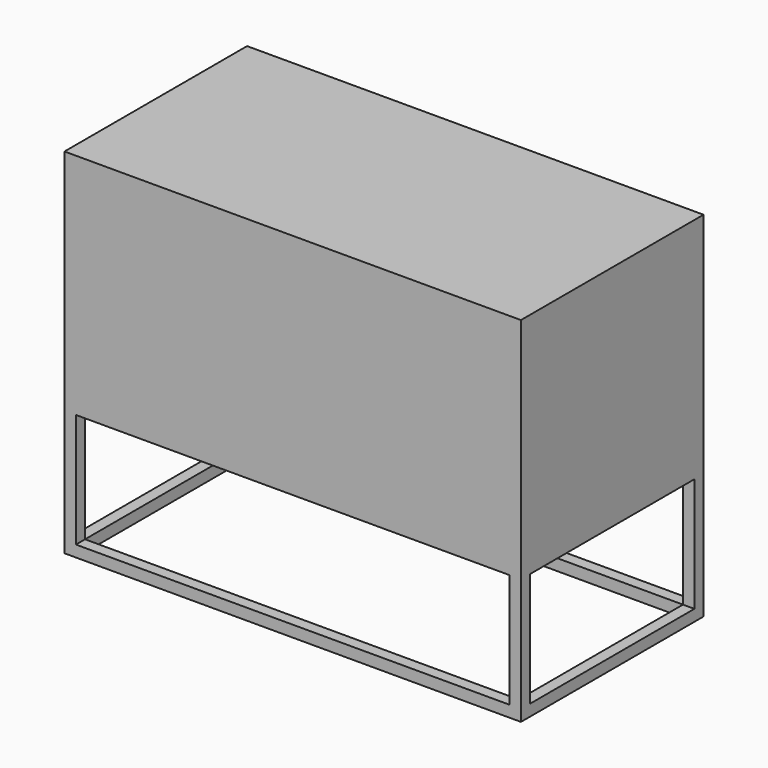
from build123d import *

# Parameters (mm, degrees)
F0_W     = 2000
F0_H     = 1000
F1_DEPTH = 1000
F3_W     = 50
F3_H     = 50
F4_DEPTH = 500
F6_W     = 2000
F6_H     = 1000
F6_W_2   = 1900
F6_H_2   = 900
F7_DEPTH = 50


with BuildPart() as f1:
    # F0 (on Front) → F1 (new body)
    with BuildSketch(Plane.XZ):
        Rectangle(F0_W, F0_H)
    extrude(amount=F1_DEPTH)

    # F3 (on offset) → F4 (join)
    with BuildSketch(Plane(origin=(0, 0, -500), x_dir=(1, 0, 0), z_dir=(0, 0, -1))):
        with Locations((975, 25)):
            Rectangle(F3_W, F3_H)
        with Locations((975, 975)):
            Rectangle(F3_W, F3_H)
        with Locations((-975, 975)):
            Rectangle(F3_W, F3_H)
        with Locations((-975, 25)):
            Rectangle(F3_W, F3_H)
    extrude(amount=F4_DEPTH)

    # F6 (on offset) → F7 (join)
    with BuildSketch(Plane(origin=(0, 0, -1000), x_dir=(1, 0, 0), z_dir=(0, 0, -1))):
        with Locations((0, 500)):
            Rectangle(F6_W, F6_H)
        with Locations((0, 500)):
            Rectangle(F6_W_2, F6_H_2, mode=Mode.SUBTRACT)
    extrude(amount=F7_DEPTH)


solid = f1.part
